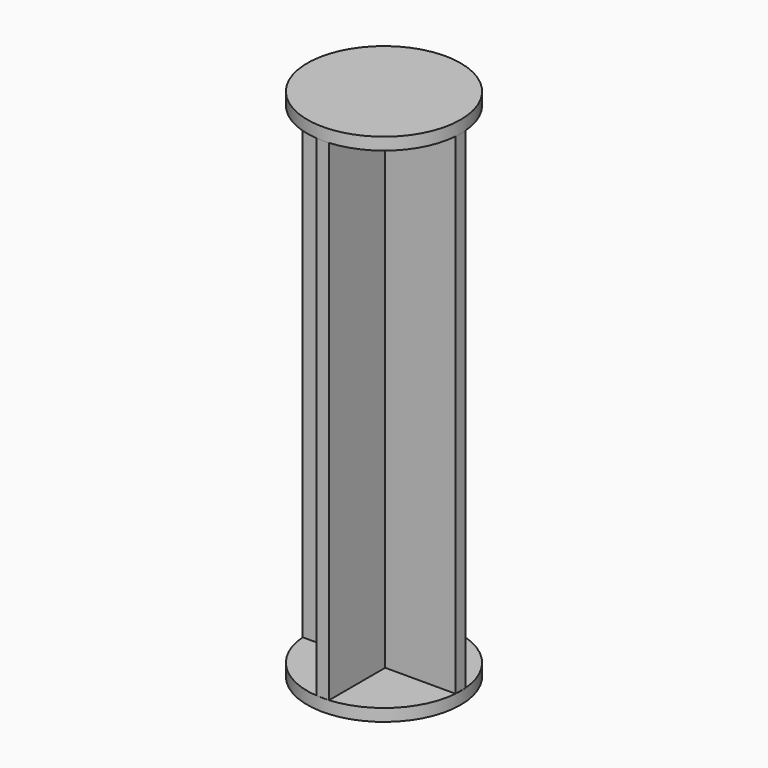
from build123d import *

# Parameters (mm, degrees)
F0_R     = 12.5
F1_DEPTH = 2
F2_W     = 2
F2_H     = 11.4599357944
F2_H_2   = 2
F2_W_2   = 11.4599357944
F3_DEPTH = 80
F4_R     = 12.5
F5_DEPTH = 2


with BuildPart() as f1:
    # F0 (on Top) → F1 (new body)
    with BuildSketch(Plane.XY):
        Circle(F0_R)
    extrude(amount=F1_DEPTH)

    # F2 (on face) → F3 (join)
    with BuildSketch(Plane.XY.offset(2)):
        with Locations((0, 6.7299678972)):
            Rectangle(F2_W, F2_H)
        Rectangle(F2_W, F2_H_2)
        with Locations((-6.7299678972, 0)):
            Rectangle(F2_W_2, F2_H_2)
        with Locations((6.7299678972, 0)):
            Rectangle(F2_W_2, F2_H_2)
        with Locations((0, -6.7299678972)):
            Rectangle(F2_W, F2_H)
    extrude(amount=F3_DEPTH)

    # F4 (on face) → F5 (join)
    with BuildSketch(Plane.XY.offset(82)):
        Circle(F4_R)
    extrude(amount=F5_DEPTH)


solid = f1.part
